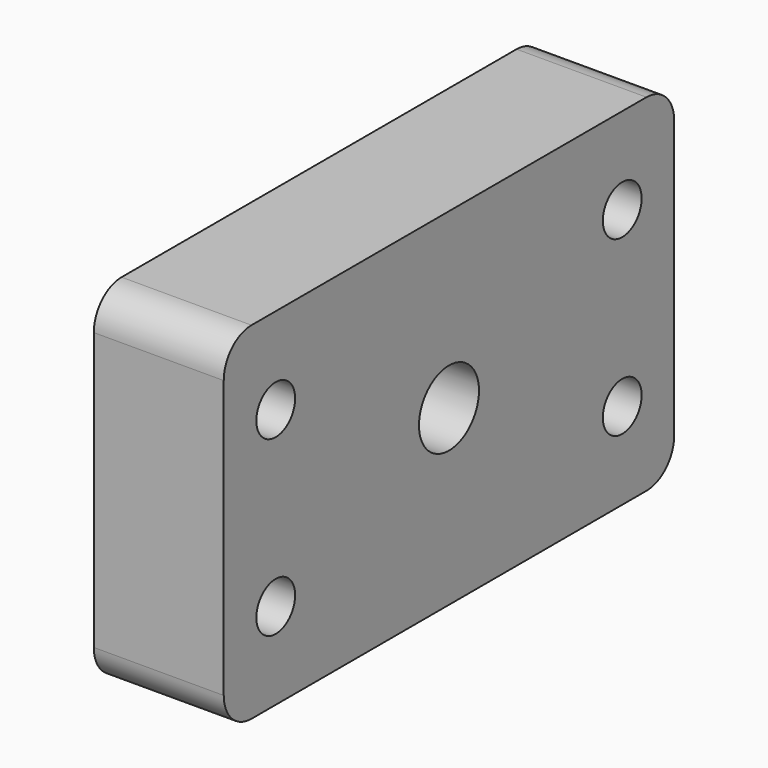
from build123d import *

# Parameters (mm, degrees)
F0_W     = 82.55
F0_H     = 50.8
F0_R     = 5.5
F1_DEPTH = 19.05
F3_D     = 7.112
F4_R     = 5.08


with BuildPart() as f1:
    # F0 (on Right) → F1 (new body)
    with BuildSketch(Plane.YZ):
        Rectangle(F0_W, F0_H)
        Circle(F0_R, mode=Mode.SUBTRACT)
    extrude(amount=F1_DEPTH)

    # F3 (through all)
    with Locations(Plane.YZ.offset(19.05)):
        with Locations((-31.75, 12.7), (31.75, 12.7), (31.75, -12.7), (-31.75, -12.7)):
            Hole(F3_D / 2)

    # F4
    f4_edges = [f1.edges().sort_by_distance(p)[0] for p in [
        (9.525, -41.275, 25.4),
        (9.525, -41.275, -25.4),
        (9.525, 41.275, -25.4),
        (9.525, 41.275, 25.4),
    ]]
    fillet(f4_edges, radius=F4_R)


solid = f1.part
